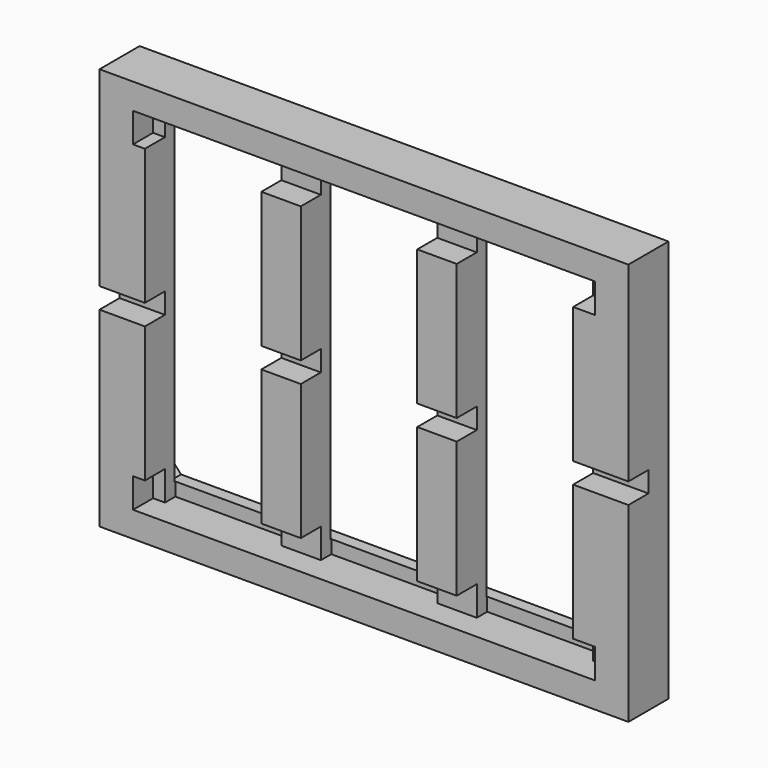
from build123d import *

# Parameters (mm, degrees)
F0_W      = 134
F0_H      = 102
F1_DEPTH  = 12.7
F2_W      = 29.5
F2_H      = 79.6
F3_DEPTH  = 12.7
F4_W      = 117
F4_H      = 7.5
F4_W_2    = 134
F4_H_2    = 5.25
F5_DEPTH  = 6.35
F8_DEPTH  = 3.25
F9_W      = 29.5
F9_H      = 4.7
F10_DEPTH = 3.3


with BuildPart() as f1:
    # F0 (on Front) → F1 (new body)
    with BuildSketch(Plane.XZ):
        Rectangle(F0_W, F0_H)
    extrude(amount=F1_DEPTH)

    # F2 (on face) → F3 (cut)
    with BuildSketch(Plane.XZ.offset(12.7)):
        with Locations((-1.25, 0)):
            Rectangle(F2_W, F2_H)
        Polygon((53, 39.8), (23.5, 39.8), (23.5, -39.8), (53, -39.8), (53, -16.022205), align=None)
        with Locations((-40.75, 0)):
            Rectangle(F2_W, F2_H)
    extrude(amount=-F3_DEPTH, mode=Mode.SUBTRACT)

    # F4 (on face) → F5 (cut)
    with BuildSketch(Plane.XZ.offset(12.7)):
        with Locations((0, 40.75)):
            Rectangle(F4_W, F4_H)
        Rectangle(F4_W_2, F4_H_2)
        with Locations((0, -40.75)):
            Rectangle(F4_W, F4_H)
    extrude(amount=-F5_DEPTH, mode=Mode.SUBTRACT)

    # F7 (on face) → F8 (cut)
    with BuildSketch(Plane(origin=(0, 0, 0), x_dir=(-1, 0, 0), z_dir=(0, 1, 0))):
        Polygon((56.5, 41.125), (-62, 41.125), (-62, -41.125), (56.5, -41.125), (62.25, -34.75), (62.25, 34.75), align=None)
    extrude(amount=-F8_DEPTH, mode=Mode.SUBTRACT)

    # F9 (on face) → F10 (cut)
    with BuildSketch(Plane.XZ.offset(6.35)):
        with Locations((-1.25, 42.15)):
            Rectangle(F9_W, F9_H)
        with Locations((38.25, 42.15)):
            Rectangle(F9_W, F9_H)
        with Locations((-40.75, 42.15)):
            Rectangle(F9_W, F9_H)
        with Locations((-40.75, -42.15)):
            Rectangle(F9_W, F9_H)
        with Locations((-1.25, -42.15)):
            Rectangle(F9_W, F9_H)
        with Locations((38.25, -42.15)):
            Rectangle(F9_W, F9_H)
    extrude(amount=-F10_DEPTH, mode=Mode.SUBTRACT)


solid = f1.part
